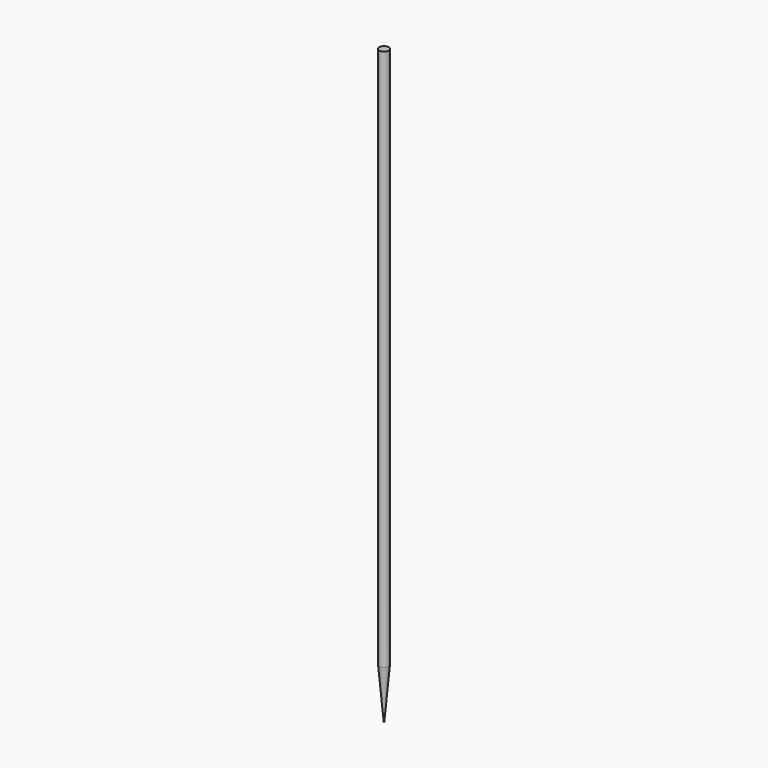
from build123d import *

# Parameters (mm, degrees)
F0_R     = 1.575
F1_DEPTH = 200
F2_SIZE2 = 1.487307
F2_SIZE  = 17


with BuildPart() as f1:
    # F0 (on Top) → F1 (new body)
    with BuildSketch(Plane.XY):
        Circle(F0_R)
    extrude(amount=F1_DEPTH)

    # F2
    f2_edges = [f1.edges().sort_by_distance(p)[0] for p in [
        (-1.575, 0, 0),
    ]]
    chamfer(f2_edges, length=F2_SIZE, length2=F2_SIZE2)


solid = f1.part
